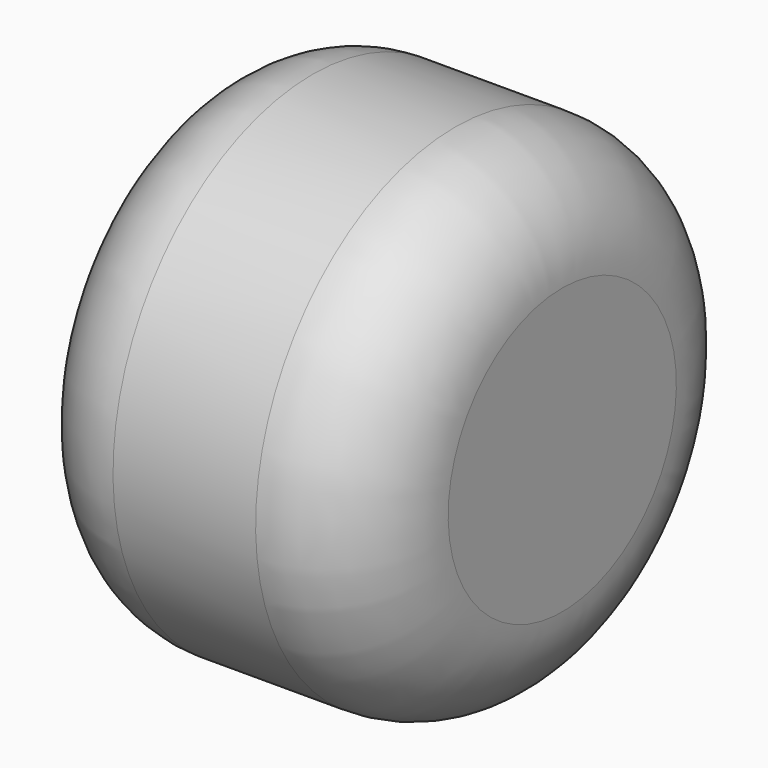
from build123d import *


with BuildPart() as f1:
    # F0 (on Front) → F1 (revolve)
    with BuildSketch(Plane.XZ):
        with BuildLine():
            Line((12.7, 44.45), (0, 44.45))
            Line((0, 44.45), (-12.7, 44.45))
            ThreePointArc((-12.7, 44.45), (-26.170384, 38.870384), (-31.75, 25.4))
            Line((-31.75, 25.4), (-31.75, 0))
            Line((-31.75, 0), (0, 0))
            Line((0, 0), (31.75, 0))
            Line((31.75, 0), (31.75, 25.4))
            ThreePointArc((31.75, 25.4), (26.170384, 38.870384), (12.7, 44.45))
        make_face()
    revolve(axis=Axis((-15.875, 0, 0), (-1, 0, 0)))


solid = f1.part
